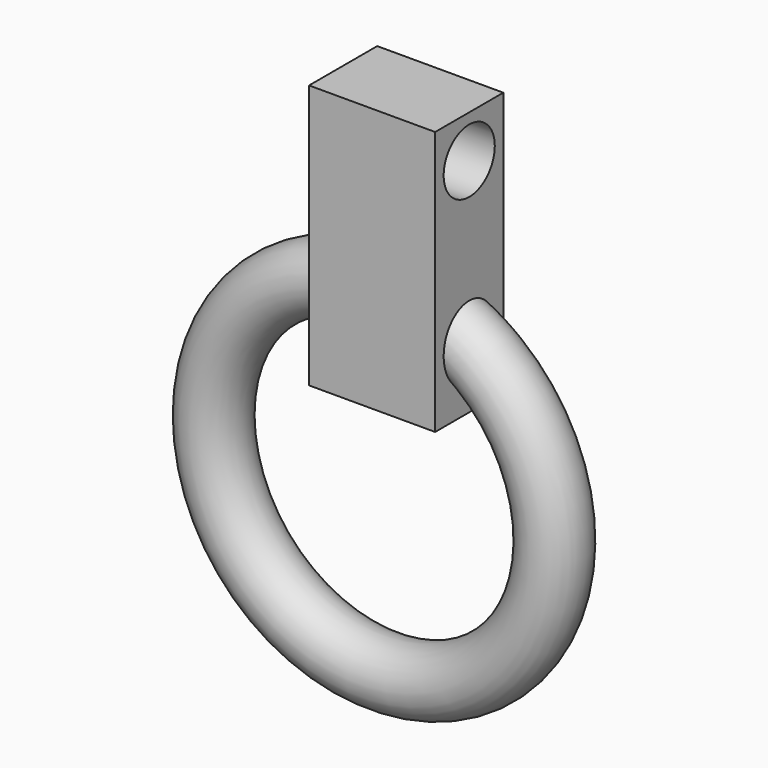
from build123d import *

# Parameters (mm, degrees)
F0_W           = 6.35
F0_H           = 19.685
F0_R           = 2.38125
F1_DEPTH       = 3.048
F3_ANGLE_START = 10
F3_ANGLE       = 349
F4_W           = 6.35
F4_H           = 19.685
F4_R           = 2.38125
F5_DEPTH       = 6.35


with BuildPart() as f1:
    # F0 (on Right) → F1 (new body)
    with BuildSketch(Plane.YZ):
        with Locations((-3.175, 9.8425)):
            Rectangle(F0_W, F0_H)
        with Locations((-3.175, 16.51)):
            Circle(F0_R, mode=Mode.SUBTRACT)
    extrude(amount=F1_DEPTH)

    # F2 (on face) → F3 (revolve)
    with BuildSketch(Plane.YZ.offset(3.048), mode=Mode.PRIVATE) as f3_sk:
        with BuildLine():
            ThreePointArc((-0.79375, 6.35), (-4.8587980227, 8.0337980227), (-3.175, 3.96875))
            ThreePointArc((-3.175, 3.96875), (-1.4912019773, 4.6662019773), (-0.79375, 6.35))
        make_face()
    revolve(f3_sk.sketch.rotate(Axis((3.048, -5.2748635836, -6.35), (0, -1, 0)), F3_ANGLE_START), axis=Axis((3.048, -5.2748635836, -6.35), (0, -1, 0)), revolution_arc=F3_ANGLE)

    # F4 (on face) → F5 (join)
    with BuildSketch(Plane.YZ.offset(3.048)):
        with Locations((-3.175, 9.8425)):
            Rectangle(F4_W, F4_H)
        with Locations((-3.175, 16.51)):
            Circle(F4_R, mode=Mode.SUBTRACT)
    extrude(amount=F5_DEPTH)


solid = f1.part
